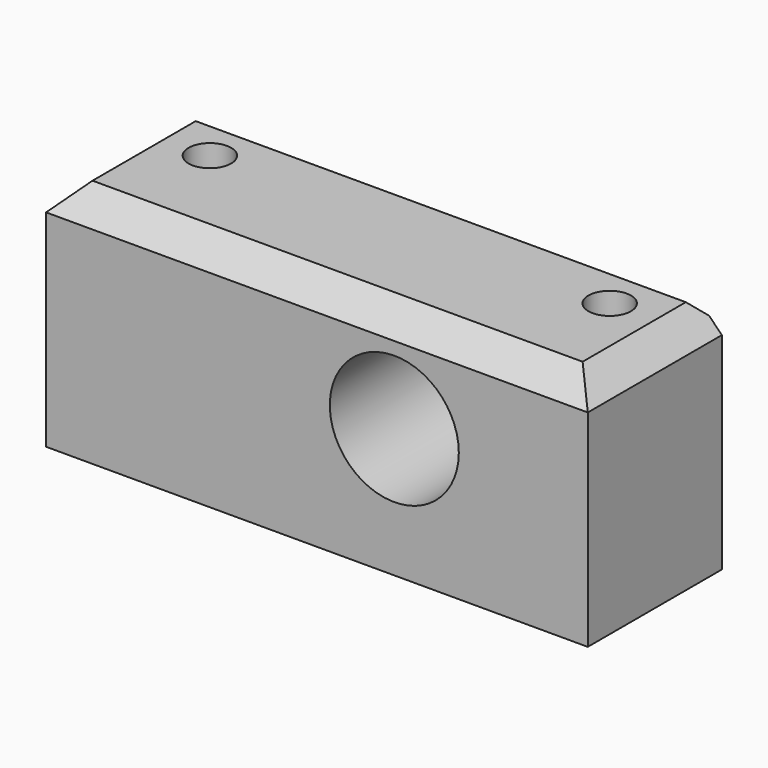
from build123d import *

# Parameters (mm, degrees)
F0_W     = 42
F0_H     = 13
F0_R     = 1.65
F1_DEPTH = 18
F2_R     = 5
F3_DEPTH = 13
F4_SIZE  = 2
F5_SIZE  = 1


with BuildPart() as f1:
    # F0 (on Top) → F1 (new body)
    with BuildSketch(Plane.XY):
        Rectangle(F0_W, F0_H)
        with Locations((-15.5, 2.5)):
            Circle(F0_R, mode=Mode.SUBTRACT)
        with Locations((15.5, 2.5)):
            Circle(F0_R, mode=Mode.SUBTRACT)
    extrude(amount=F1_DEPTH)

    # F2 (on face) → F3 (cut, through all)
    with BuildSketch(Plane.XZ.offset(6.5)):
        with Locations((6, 10)):
            Circle(F2_R)
    extrude(amount=-F3_DEPTH, mode=Mode.SUBTRACT)

    # F4
    f4_edges = [f1.edges().sort_by_distance(p)[0] for p in [
        (-21, 0, 18),
        (0, -6.5, 18),
        (21, 0, 18),
    ]]
    chamfer(f4_edges, length=F4_SIZE)

    # F5
    f5_edges = [f1.edges().sort_by_distance(p)[0] for p in [
        (0, 6.5, 18),
    ]]
    chamfer(f5_edges, length=F5_SIZE)


solid = f1.part
